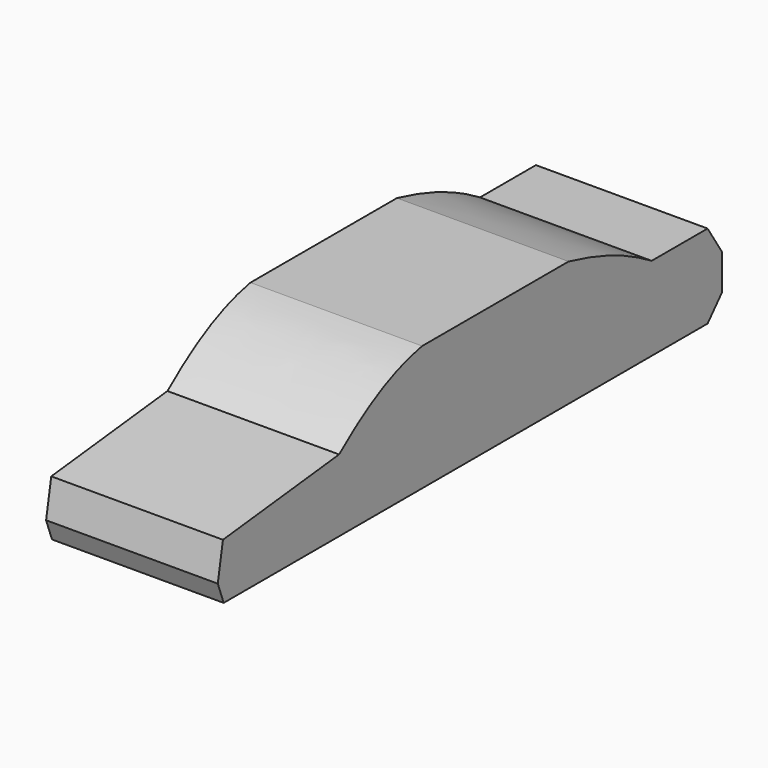
from build123d import *

# Parameters (mm, degrees)
F1_DEPTH = 326


with BuildPart() as f1:
    # F0 (on Right) → F1 (new body)
    with BuildSketch(Plane.YZ):
        with BuildLine():
            Line((-76.612726, 118.096963), (-352.31185, 87.541036))
            Line((-352.31185, 87.541036), (-364.602506, 19.201454))
            Line((-364.602506, 19.201454), (-350.530187, -18.712385))
            Line((-350.530187, -18.712385), (798.051953, -18.712385))
            Line((798.051953, -18.712385), (832.033157, 19.201454))
            Line((832.033157, 19.201454), (832.033157, 87.541036))
            Line((832.033157, 87.541036), (798.051953, 140.187368))
            Line((798.051953, 140.187368), (665.266216, 140.187368))
            add(Edge.make_bspline(
                [(468.091041, 219.218537), (541.562438, 201.894075), (604.260385, 178.068846), (665.266216, 140.187368)],
                knots=[0, 0, 0, 0, 212.424046, 212.424046, 212.424046, 212.424046], degree=3))
            Line((468.091041, 219.218537), (120.46339, 219.218537))
            add(Edge.make_bspline(
                [(-76.612726, 118.096963), (-26.481275, 159.259453), (39.978579, 204.402), (120.46339, 219.218537)],
                knots=[0, 0, 0, 0, 221.505233, 221.505233, 221.505233, 221.505233], degree=3))
        make_face()
    extrude(amount=F1_DEPTH)


solid = f1.part
